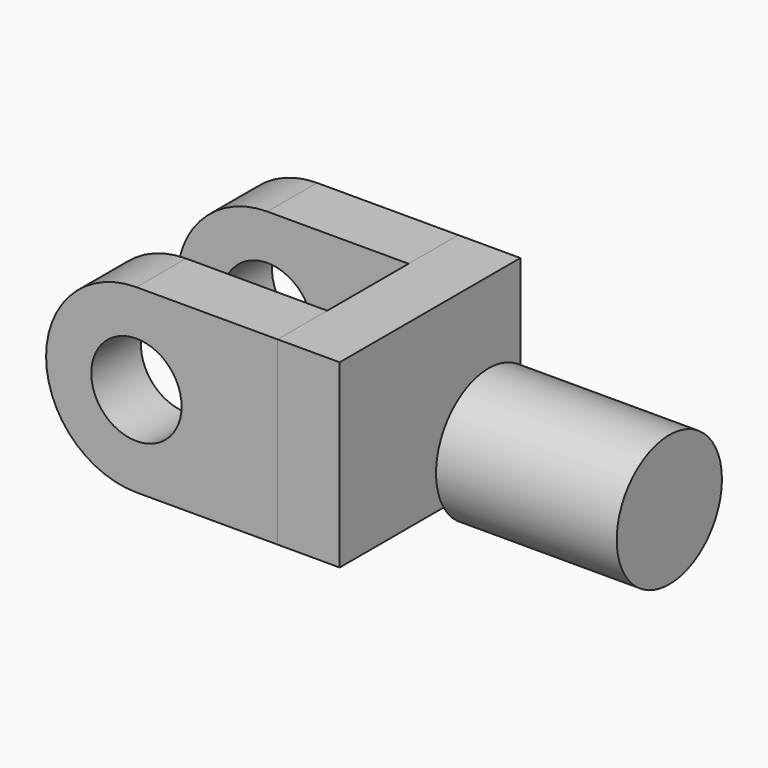
from build123d import *

# Parameters (mm, degrees)
F0_R     = 8
F1_DEPTH = 11
F0_W     = 11
F0_H     = 32
F2_DEPTH = 40
F4_R     = 11.645822
F5_DEPTH = 32


with BuildPart() as f1:
    # F0 (on Front) → F1 (new body)
    with BuildSketch(Plane.XZ):
        with BuildLine():
            ThreePointArc((-46.173565, 10.471223), (-62.173565, -5.528777), (-46.173565, -21.528777))
            Line((-46.173565, -21.528777), (-21.173565, -21.528777))
            Line((-21.173565, -21.528777), (-21.173565, 10.471223))
            Line((-21.173565, 10.471223), (-46.173565, 10.471223))
        make_face()
        with Locations((-46.173565, -5.528777)):
            Circle(F0_R, mode=Mode.SUBTRACT)
    extrude(amount=F1_DEPTH)


with BuildPart() as f2:
    # F0 (on Front) → F2 (new body)
    with BuildSketch(Plane.XZ):
        with Locations((-15.673565, -5.528777)):
            Rectangle(F0_W, F0_H)
    extrude(amount=F2_DEPTH)


with BuildPart() as f3_1:
    # F3: copy of F1
    add(f1.part.moved(Location((0, -29, 0))))


with BuildPart() as f5:
    # F4 (on Right) → F5 (new body)
    with BuildSketch(Plane.YZ):
        with Locations((-19.746052, -7.020819)):
            Circle(F4_R)
    extrude(amount=F5_DEPTH)


solid = Compound([f1.part, f2.part, f3_1.part, f5.part])
